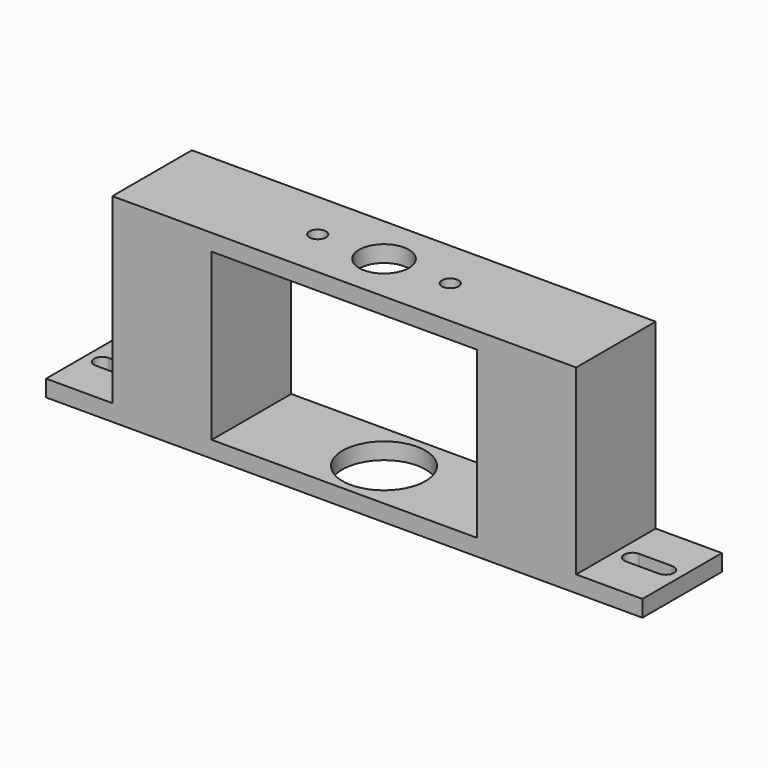
from build123d import *

# Parameters (mm, degrees)
F0_W      = 228.6
F0_H      = 38.1
F9_DEPTH  = 6.35
F1_W      = 38.1
F1_H      = 38.1
F1_W_2    = 25.4
F1_H_2    = 25.4
F10_DEPTH = 63.5
F11_W     = 177.8
F11_H     = 38.1
F2_DEPTH  = 6.35
F3_R      = 9.525
F3_R_2    = 3.175
F4_DEPTH  = 25.4
F6_DEPTH  = 6.351
F7_R      = 15.875
F8_DEPTH  = 25.4


with BuildPart() as f9:
    # F0 (on Top) → F9 (new body)
    with BuildSketch(Plane.XY):
        Rectangle(F0_W, F0_H)
    extrude(amount=F9_DEPTH)

    # F1 (on face) → F10 (join)
    with BuildSketch(Plane.XY.offset(6.35)):
        with Locations((69.85, 0)):
            Rectangle(F1_W, F1_H)
        with Locations((69.85, 0)):
            Rectangle(F1_W_2, F1_H_2, mode=Mode.SUBTRACT)
        with Locations((-69.85, 0)):
            Rectangle(F1_W, F1_H)
        with Locations((-69.85, 0)):
            Rectangle(F1_W_2, F1_H_2, mode=Mode.SUBTRACT)
    extrude(amount=F10_DEPTH)

    # F11 (on face) → F2 (join)
    with BuildSketch(Plane.XY.offset(69.85)):
        Rectangle(F11_W, F11_H)
    extrude(amount=F2_DEPTH)

    # F3 (on face) → F4 (cut)
    with BuildSketch(Plane.XY.offset(76.2)):
        Circle(F3_R)
        with Locations((25.4, 0)):
            Circle(F3_R_2)
        with Locations((-25.4, 0)):
            Circle(F3_R_2)
    extrude(amount=-F4_DEPTH, mode=Mode.SUBTRACT)

    # F5 (on face) → F6 (cut, through all)
    with BuildSketch(Plane.XY.offset(6.35)):
        with BuildLine():
            Line((-95.25, 3.175), (-107.95, 3.175))
            ThreePointArc((-107.95, 3.175), (-111.125, 0), (-107.95, -3.175))
            Line((-107.95, -3.175), (-95.25, -3.175))
            ThreePointArc((-95.25, -3.175), (-92.075, 0), (-95.25, 3.175))
        make_face()
        with BuildLine():
            Line((95.25, -3.175), (107.95, -3.175))
            ThreePointArc((107.95, -3.175), (111.125, 0), (107.95, 3.175))
            Line((107.95, 3.175), (95.25, 3.175))
            ThreePointArc((95.25, 3.175), (92.075, 0), (95.25, -3.175))
        make_face()
    extrude(amount=-F6_DEPTH, mode=Mode.SUBTRACT)

    # F7 (on face) → F8 (cut)
    with BuildSketch(Plane(origin=(0, 0, 0), x_dir=(1, 0, 0), z_dir=(0, 0, -1))):
        Circle(F7_R)
    extrude(amount=-F8_DEPTH, mode=Mode.SUBTRACT)


solid = f9.part
